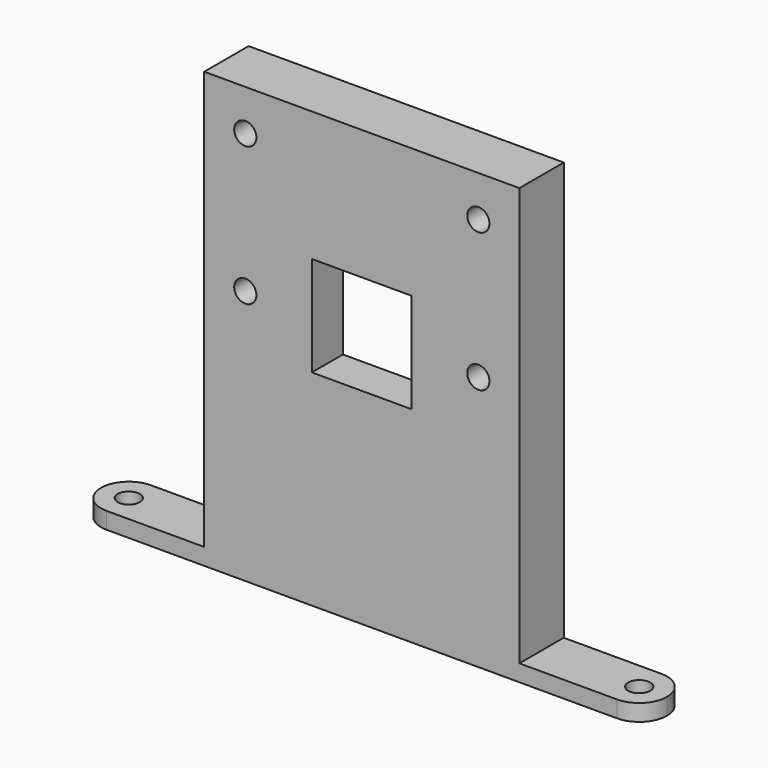
from build123d import *

# Parameters (mm, degrees)
F0_R     = 1
F1_DEPTH = 1.5
F3_DEPTH = 1.5
F4_DEPTH = 5
F2_W     = 4.5
F2_H     = 4.5
F2_R     = 1
F5_DEPTH = 3.5


with BuildPart() as f1:
    # F0 (on Top) → F1 (new body)
    with BuildSketch(Plane.XY):
        with BuildLine():
            ThreePointArc((-20.5, 0), (-21.232233047, 1.767766953), (-23, 2.5))
            ThreePointArc((-23, 2.5), (-25.5, 0), (-23, -2.5))
            ThreePointArc((-23, -2.5), (-21.232233047, -1.767766953), (-20.5, 0))
        make_face()
        with Locations((-23, 0)):
            Circle(F0_R, mode=Mode.SUBTRACT)
        with BuildLine():
            Line((23, 2.5), (-23, 2.5))
            ThreePointArc((-23, 2.5), (-21.232233047, 1.767766953), (-20.5, 0))
            ThreePointArc((-20.5, 0), (-21.232233047, -1.767766953), (-23, -2.5))
            Line((-23, -2.5), (23, -2.5))
            ThreePointArc((23, -2.5), (20.5, 0), (23, 2.5))
        make_face()
        with BuildLine():
            ThreePointArc((25.5, 0), (24.767766953, 1.767766953), (23, 2.5))
            ThreePointArc((23, 2.5), (20.5, 0), (23, -2.5))
            ThreePointArc((23, -2.5), (24.767766953, -1.767766953), (25.5, 0))
        make_face()
        with Locations((23, 0)):
            Circle(F0_R, mode=Mode.SUBTRACT)
    extrude(amount=F1_DEPTH)

    # F2 (on face) → F3 (join)
    with BuildSketch(Plane.XZ.offset(2.5)):
        Polygon((8.2, 37.7), (-8.2, 37.7), (-8.2, 33.2), (-12.7, 33.2), (-12.7, 25.25), (-8.2, 25.25), (-8.2, 20.75), (-12.7, 20.75), (-12.7, 13.3), (-8.25, 13.3), (-8.25, 11.8), (-12.7, 11.8), (-12.7, 1.5), (12.7, 1.5), (12.7, 11.8), (8.25, 11.8), (8.25, 13.3), (12.7, 13.3), (12.7, 20.75), (8.2, 20.75), (8.2, 25.25), (12.7, 25.25), (12.7, 33.2), (8.2, 33.2), align=None)
        Polygon((-6.5, 27.5), (-4.5, 27.5), (4.5, 27.5), (6.5, 27.5), (6.5, 16.5), (-6.5, 16.5), align=None, mode=Mode.SUBTRACT)
        Polygon((8.2, 37.7), (-8.2, 37.7), (-8.2, 33.2), (-12.7, 33.2), (-12.7, 25.25), (-8.2, 25.25), (-8.2, 20.75), (-12.7, 20.75), (-12.7, 13.3), (-8.25, 13.3), (-8.25, 11.8), (-12.7, 11.8), (-12.7, 1.5), (12.7, 1.5), (12.7, 11.8), (8.25, 11.8), (8.25, 13.3), (12.7, 13.3), (12.7, 20.75), (8.2, 20.75), (8.2, 25.25), (12.7, 25.25), (12.7, 33.2), (8.2, 33.2), align=None)
        Polygon((-6.5, 27.5), (-4.5, 27.5), (4.5, 27.5), (6.5, 27.5), (6.5, 16.5), (-6.5, 16.5), align=None, mode=Mode.SUBTRACT)
    extrude(amount=-F3_DEPTH)

    # F2 (on face) → F4 (join)
    with BuildSketch(Plane.XZ.offset(2.5)):
        Polygon((-12.7, 33.2), (-12.7, 37.7), (-8.2, 37.7), (8.2, 37.7), (12.7, 37.7), (12.7, 33.2), (12.7, 25.25), (12.7, 20.75), (12.7, 13.3), (8.25, 13.3), (8.25, 11.8), (12.7, 11.8), (12.7, 1.5), (14.2, 1.5), (14.2, 39.2), (-14.2, 39.2), (-14.2, 1.5), (-12.7, 1.5), (-12.7, 11.8), (-8.25, 11.8), (-8.25, 13.3), (-12.7, 13.3), (-12.7, 20.75), (-12.7, 25.25), align=None)
    extrude(amount=-F4_DEPTH)

    # F2 (on face) → F5 (join)
    with BuildSketch(Plane.XZ.offset(2.5)):
        with Locations((10.45, 35.45)):
            Rectangle(F2_W, F2_H)
        with Locations((10.5, 35.5)):
            Circle(F2_R, mode=Mode.SUBTRACT)
        with Locations((10.45, 23)):
            Rectangle(F2_W, F2_H)
        with Locations((10.5, 23)):
            Circle(F2_R, mode=Mode.SUBTRACT)
        Polygon((-4.5, 18.5), (-4.5, 27.5), (-6.5, 27.5), (-6.5, 16.5), (6.5, 16.5), (6.5, 27.5), (4.5, 27.5), (4.5, 18.5), align=None)
        with Locations((-10.45, 35.45)):
            Rectangle(F2_W, F2_H)
        with Locations((-10.5, 35.5)):
            Circle(F2_R, mode=Mode.SUBTRACT)
        with Locations((-10.45, 23)):
            Rectangle(F2_W, F2_H)
        with Locations((-10.5, 23)):
            Circle(F2_R, mode=Mode.SUBTRACT)
    extrude(amount=-F5_DEPTH)


solid = f1.part
